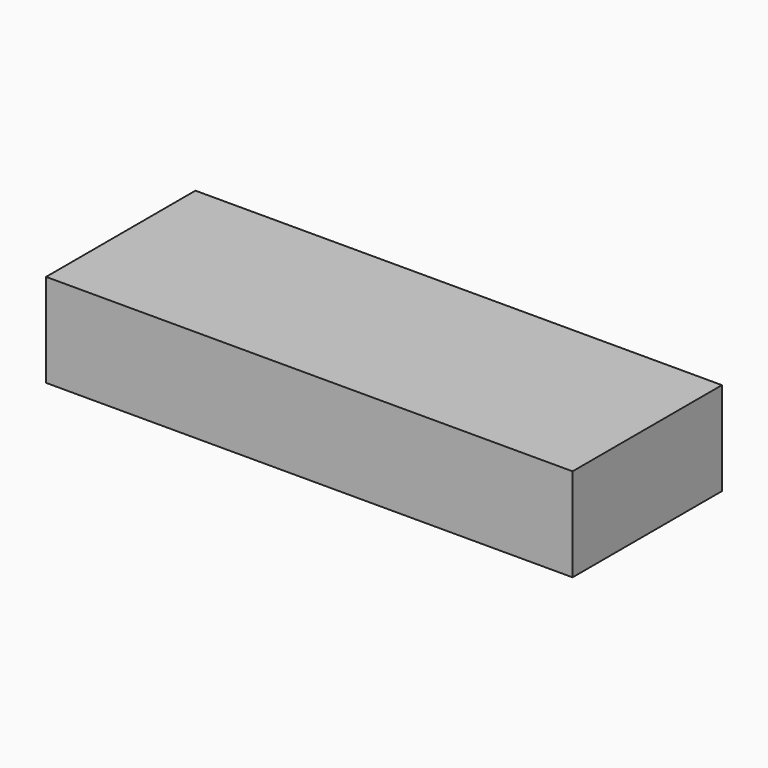
from build123d import *

# Parameters (mm, degrees)
SKETCH_W  = 5.64
SKETCH_H  = 2
PAD_DEPTH = 1


with BuildPart() as part:
    # Sketch → Pad (new body)
    with BuildSketch(Plane.XY):
        Rectangle(SKETCH_W, SKETCH_H)
    extrude(amount=PAD_DEPTH)


solid = part.part
